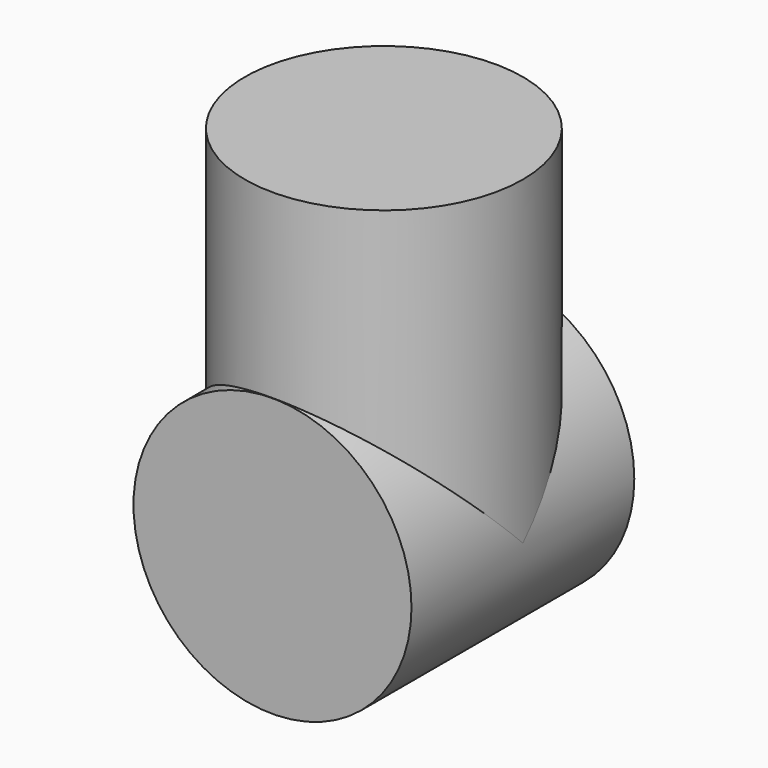
from build123d import *

# Parameters (mm, degrees)
CYLINDER005_R     = 13.9827
CYLINDER005_DEPTH = 28.0162
CYLINDER004_R     = 13.9827
CYLINDER004_DEPTH = 32.1945


with BuildPart() as cylinder005:
    # Cylinder005 → Cylinder005 (new body)
    with BuildSketch(Plane.XZ.offset(-14.0081)):
        Circle(CYLINDER005_R)
    extrude(amount=CYLINDER005_DEPTH)


with BuildPart() as slip:
    # Cylinder004 → Cylinder004 (new body)
    with BuildSketch(Plane.XY):
        Circle(CYLINDER004_R)
    extrude(amount=CYLINDER004_DEPTH)

    # Fusion001: union Cylinder005
    add(cylinder005.part)


solid = slip.part
